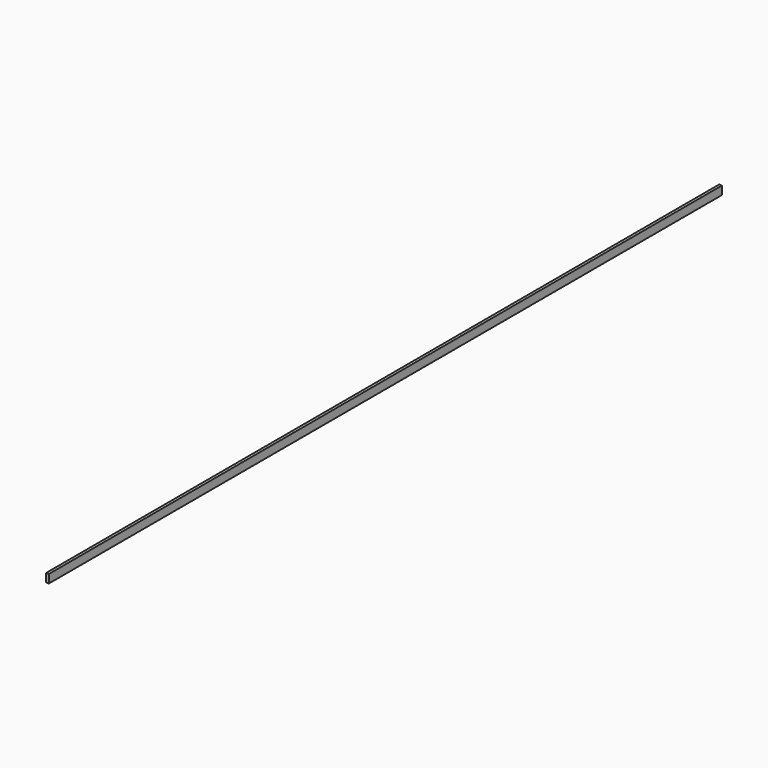
from build123d import *

# Parameters (mm, degrees)
SKETCH_W  = 1
SKETCH_H  = 3
PAD_DEPTH = 300


with BuildPart() as part:
    # Sketch → Pad (new body)
    with BuildSketch(Plane.XZ):
        with Locations((0.5, 1.5)):
            Rectangle(SKETCH_W, SKETCH_H)
    extrude(amount=PAD_DEPTH)


solid = part.part
